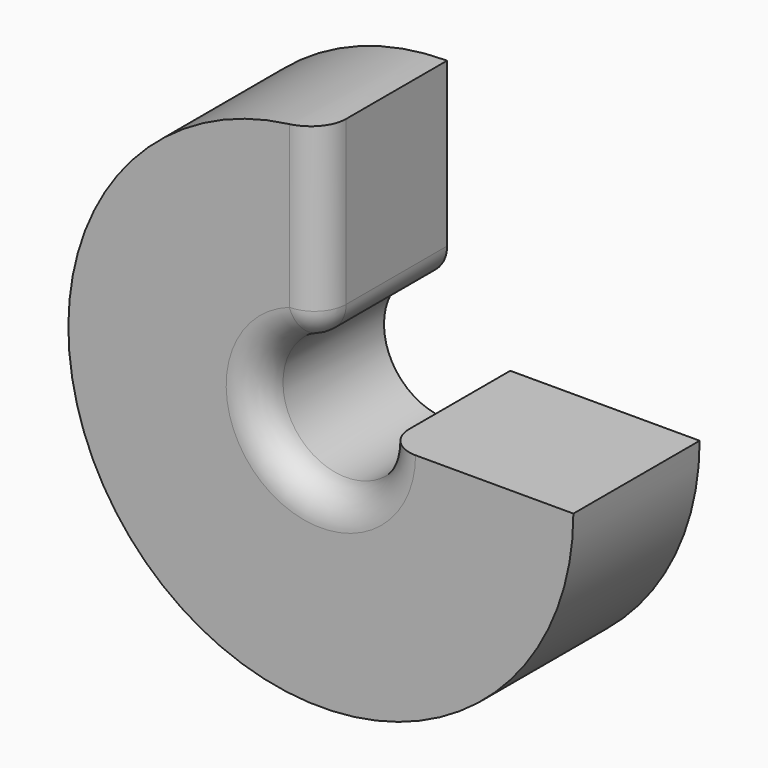
from build123d import *

# Parameters (mm, degrees)
F1_DEPTH = 25
F2_R     = 5


with BuildPart() as f1:
    # F0 (on Front) → F1 (new body)
    with BuildSketch(Plane.XZ):
        with BuildLine():
            Line((0, 10), (0, 40))
            ThreePointArc((0, 40), (-28.284271, -28.284271), (40, 0))
            Line((40, 0), (10, 0))
            ThreePointArc((10, 0), (-7.071068, -7.071068), (0, 10))
        make_face()
    extrude(amount=F1_DEPTH)

    # F2
    f2_edges = [f1.edges().sort_by_distance(p)[0] for p in [
        (-7.071068, -25, -7.071068),
        (0, -25, 25),
        (0, -12.5, 10),
    ]]
    fillet(f2_edges, radius=F2_R)


solid = f1.part
